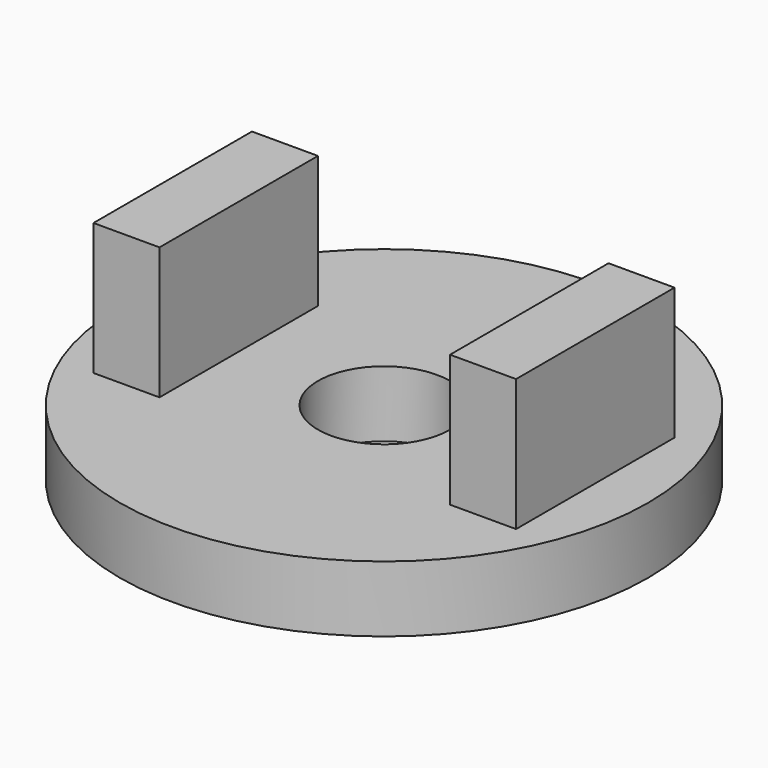
from build123d import *

# Parameters (mm, degrees)
SKETCH_R     = 40
SKETCH_R_2   = 10
PAD_DEPTH    = 10
SKETCH001_W  = 10
SKETCH001_H  = 30
PAD001_DEPTH = 20


with BuildPart() as part:
    # Sketch → Pad (new body)
    with BuildSketch(Plane.XY):
        Circle(SKETCH_R)
        Circle(SKETCH_R_2, mode=Mode.SUBTRACT)
    extrude(amount=PAD_DEPTH)

    # Sketch001 → Pad001 (new body)
    with BuildSketch(Plane.XY.offset(10)):
        with Locations((-27, 0)):
            Rectangle(SKETCH001_W, SKETCH001_H)
        with Locations((27, 0)):
            Rectangle(SKETCH001_W, SKETCH001_H)
    extrude(amount=PAD001_DEPTH)


solid = part.part
